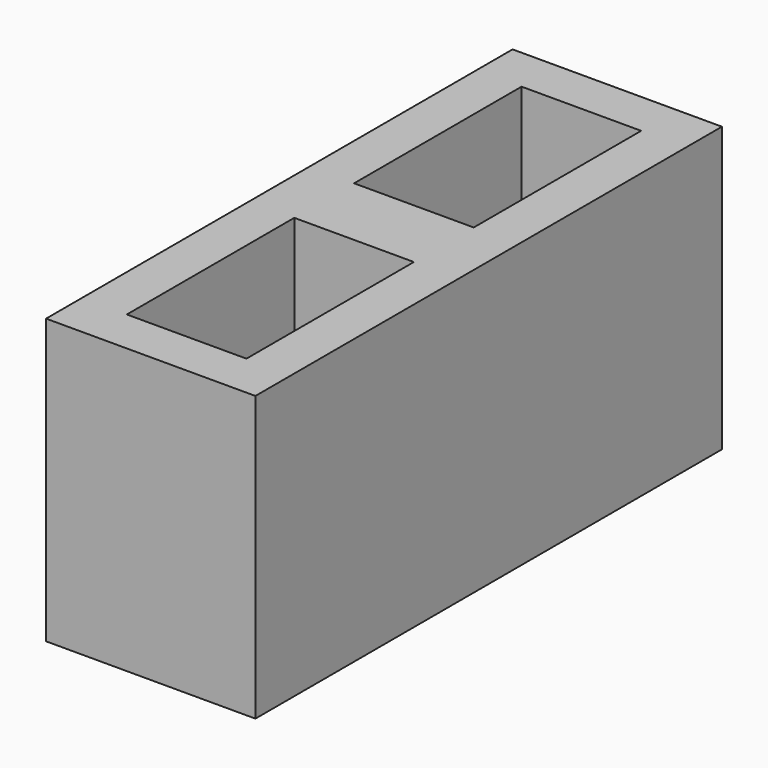
from build123d import *

# Parameters (mm, degrees)
BOX119_W               = 140
BOX119_H               = 80
BOX119_DEPTH           = 190
BOX120_W               = 140
BOX120_H               = 80
BOX120_DEPTH           = 190
BOX121_W               = 390
BOX121_H               = 140
BOX121_DEPTH           = 190
CUT018_PLACEMENT_ANGLE = 90


with BuildPart() as cube091:
    # Box119 → Box119 (new body)
    with BuildSketch(Plane(origin=(220, 30, 0), x_dir=(1, 0, 0), z_dir=(0, 0, 1))):
        with Locations((70, 40)):
            Rectangle(BOX119_W, BOX119_H)
    extrude(amount=BOX119_DEPTH)


with BuildPart() as fusion023:
    # Box120 → Box120 (new body)
    with BuildSketch(Plane(origin=(30, 30, 0), x_dir=(1, 0, 0), z_dir=(0, 0, 1))):
        with Locations((70, 40)):
            Rectangle(BOX120_W, BOX120_H)
    extrude(amount=BOX120_DEPTH)

    # Fusion023: union Cube091
    add(cube091.part)


with BuildPart() as cut018:
    # Box121 → Box121 (new body)
    with BuildSketch(Plane.XY):
        with Locations((195, 70)):
            Rectangle(BOX121_W, BOX121_H)
    extrude(amount=BOX121_DEPTH)

    # Cut018: cut Fusion023
    add(fusion023.part, mode=Mode.SUBTRACT)


with BuildPart() as cut018_1:
    # Cut018 placement: moved
    add(cut018.part.moved(Location((1085, -205, -190))).rotate(Axis((1085, -205, -190), (0, 0, 1)), CUT018_PLACEMENT_ANGLE))


solid = cut018_1.part
